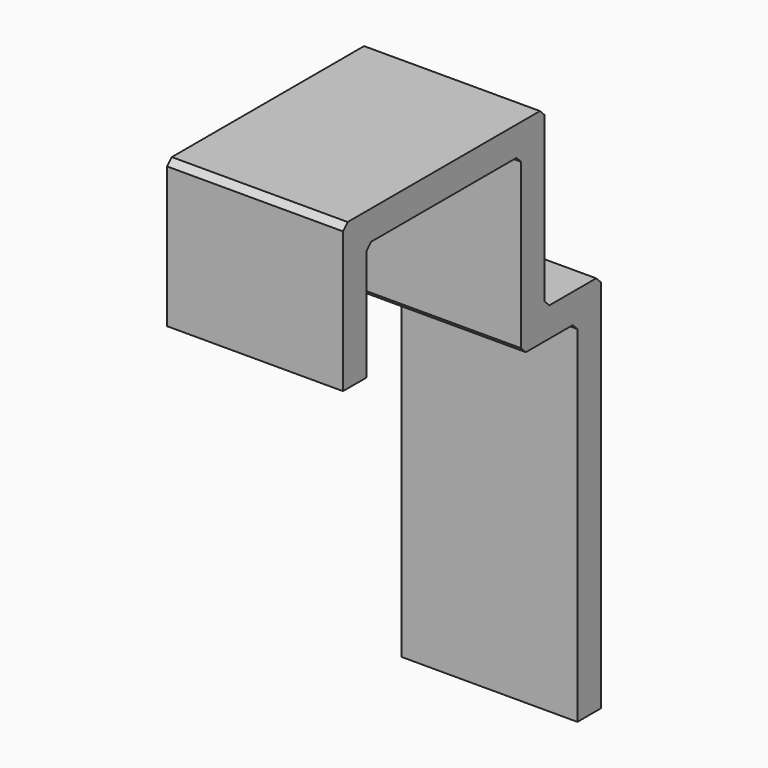
from build123d import *

# Parameters (mm, degrees)
F1_DEPTH = 30
F2_SIZE  = 1


with BuildPart() as f1:
    # F0 (on Right) → F1 (new body)
    with BuildSketch(Plane.YZ):
        Polygon((-5.000001, 0), (0, 0), (0, 65), (-12, 65), (-12, 95), (-55.000002, 95), (-55.000002, 70), (-50.000001, 70), (-50.000001, 89.999999), (-17.000001, 89.999999), (-17.000001, 59.999999), (-5.000001, 59.999999), align=None)
    extrude(amount=F1_DEPTH)

    # F2
    f2_edges = [f1.edges().sort_by_distance(p)[0] for p in [
        (15, -17.000001, 59.999999),
        (15, -12, 65),
        (15, 0, 65),
        (15, -12, 95),
        (15, -55.000002, 95),
        (15, -5.000001, 59.999999),
        (15, -17.000001, 89.999999),
        (15, -50.000001, 89.999999),
    ]]
    chamfer(f2_edges, length=F2_SIZE)


solid = f1.part
